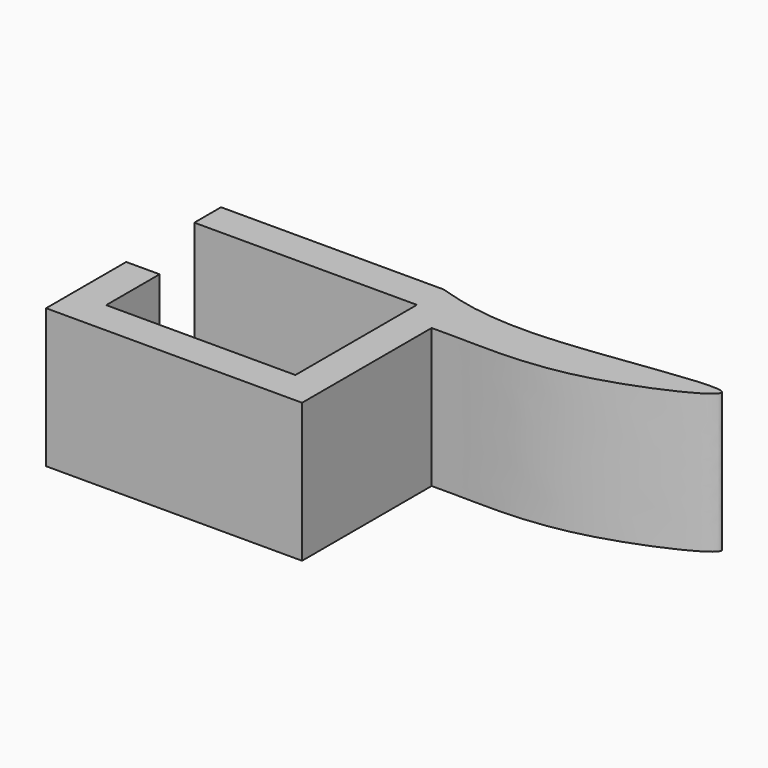
from build123d import *

# Parameters (mm, degrees)
F0_W     = 40
F0_H     = 6
F0_W_2   = 6
F0_H_2   = 12
F1_DEPTH = 25


with BuildPart() as f1:
    # F0 (on Top) → F1 (new body)
    with BuildSketch(Plane.XY):
        with Locations((-20, 16.65)):
            Rectangle(F0_W, F0_H)
        with BuildLine():
            add(Edge.make_bspline(
                [(0, 19.65), (1.32, 19.23), (6.5703118609, 17.6027221404), (21.2938495912, 15.9894800668), (62.2492562739, 23.7538682889), (30.4673287597, 8.6382934014), (13.8320583584, 9.5056647609), (7.5860551278, 9.4623694736), (6, 9.45)],
                knots=[0, 0, 0, 0, 0.0988874341, 0.2741796768, 0.4881488683, 0.670717768, 0.8632637966, 0.9268289701, 0.9268289701, 0.9268289701, 0.9268289701], degree=3))
            Line((0, 19.65), (0, 13.65))
            Line((0, 13.65), (0, 9.45))
            add(Edge.make_bspline(
                [(6, 9.45), (4.1742630295, 9.4357612734), (2.3010396726, 9.4193708157), (0, 9.45)],
                knots=[0.9268289701, 0.9268289701, 0.9268289701, 0.9268289701, 1, 1, 1, 1], degree=3))
        make_face()
        with BuildLine():
            Line((6, -19.65), (6, 9.45))
            add(Edge.make_bspline(
                [(6, 9.45), (4.1742630295, 9.4357612734), (2.3010396726, 9.4193708157), (0, 9.45)],
                knots=[0.9268289701, 0.9268289701, 0.9268289701, 0.9268289701, 1, 1, 1, 1], degree=3))
            Line((0, 9.45), (0, -13.65))
            Line((0, -13.65), (0, -19.65))
            Line((0, -19.65), (6, -19.65))
        make_face()
        Polygon((0, -19.65), (0, -13.65), (-34, -13.65), (-40, -13.65), (-40, -19.65), align=None)
        with Locations((-37, -7.65)):
            Rectangle(F0_W_2, F0_H_2)
    extrude(amount=F1_DEPTH)


solid = f1.part
